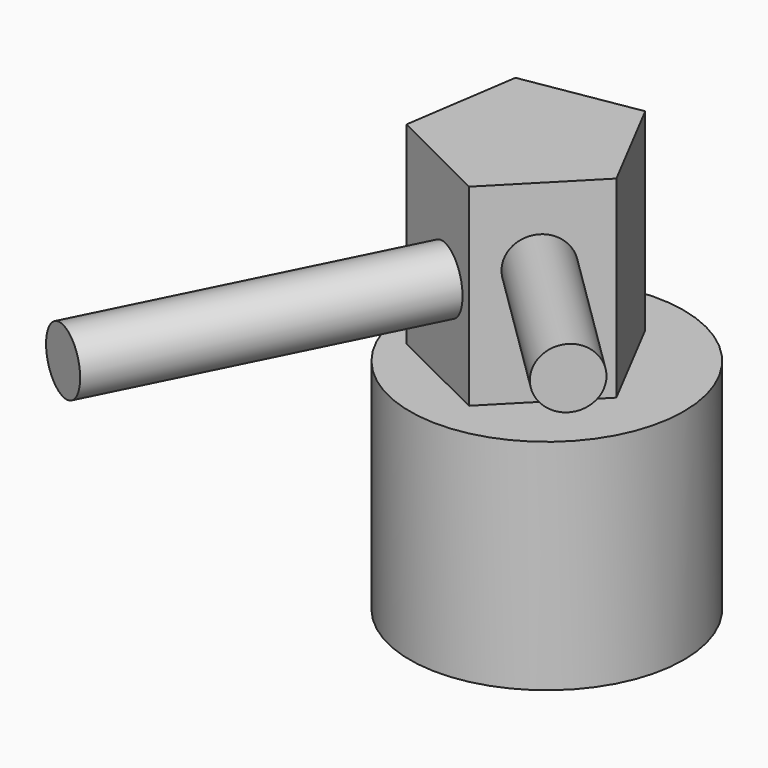
from build123d import *

# Parameters (mm, degrees)
F0_R     = 74.1352209334
F1_DEPTH = 118.364
F3_DEPTH = 104.394
F4_R     = 16.3171471284
F5_DEPTH = 101.092
F6_R     = 17.1698744157
F7_DEPTH = 178.054


with BuildPart() as f1:
    # F0 (on Top) → F1 (new body)
    with BuildSketch(Plane.XY):
        Circle(F0_R)
    extrude(amount=F1_DEPTH)

    # F2 (on face) → F3 (join)
    with BuildSketch(Plane.XY.offset(118.364)):
        Polygon((-0.0639286038, -52.6971781414), (43.9794872102, -7.9233831007), (15.0072416542, 47.8002580793), (-46.9420066437, 37.4655672647), (-56.2565021134, -24.645264102), align=None)
    extrude(amount=F3_DEPTH)

    # F4 (on face) → F5 (join)
    with BuildSketch(Plane(origin=(26.312535727, -25.8833085534, 0), x_dir=(0.7012682501, 0.7128974971, 0), z_dir=(0.7128974971, -0.7012682501, 0))):
        with Locations((-7.3910155334, 181.9214969873)):
            Circle(F4_R)
    extrude(amount=F5_DEPTH)

    # F6 (on face) → F7 (join)
    with BuildSketch(Plane(origin=(-21.0716275073, -42.2099175124, 0), x_dir=(0.894709617, -0.4466482971, 0), z_dir=(-0.4466482971, -0.894709617, 0))):
        with Locations((0, 167.5989925861)):
            Circle(F6_R)
    extrude(amount=F7_DEPTH)


solid = f1.part
